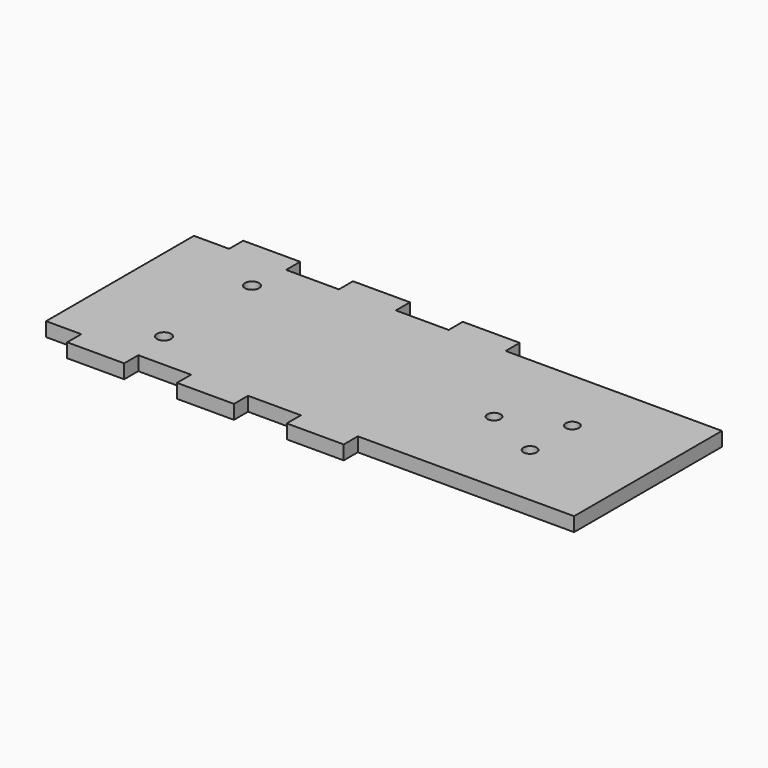
from build123d import *

# Parameters (mm, degrees)
F0_R     = 1.6
F0_R_2   = 1.5
F1_DEPTH = 3.2


with BuildPart() as f1:
    # F0 (on Top) → F1 (new body)
    with BuildSketch(Plane.XY):
        Polygon((-52, 21), (-60, 21), (-60, -21), (-52, -21), (-52, -25), (-39.05, -25), (-39.05, -21), (-27.05, -21), (-27.05, -25), (-14.1, -25), (-14.1, -21), (-2.1, -21), (-2.1, -25), (10.85, -25), (10.85, -21), (60, -21), (60, 21), (10.85, 21), (10.85, 25), (-2.1, 25), (-2.1, 21), (-14.1, 21), (-14.1, 25), (-27.05, 25), (-27.05, 21), (-39.05, 21), (-39.05, 25), (-52, 25), align=None)
        with Locations((-40, -12.5)):
            Circle(F0_R, mode=Mode.SUBTRACT)
        with Locations((38, -6)):
            Circle(F0_R_2, mode=Mode.SUBTRACT)
        with Locations((-40, 12.5)):
            Circle(F0_R, mode=Mode.SUBTRACT)
        with Locations((25, 0)):
            Circle(F0_R_2, mode=Mode.SUBTRACT)
        with Locations((38, 6)):
            Circle(F0_R_2, mode=Mode.SUBTRACT)
    extrude(amount=F1_DEPTH)


solid = f1.part
